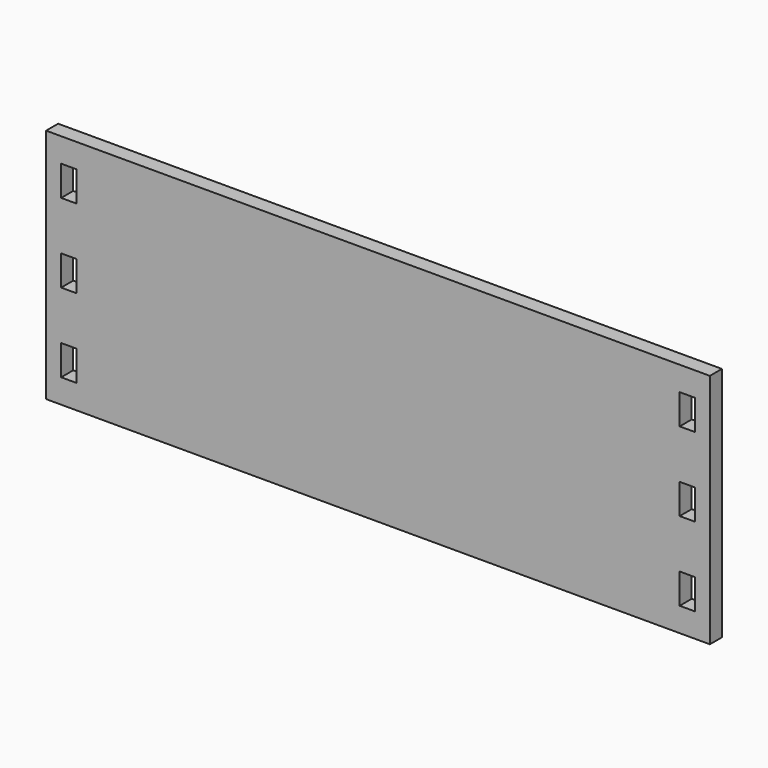
from build123d import *

# Parameters (mm, degrees)
F0_W     = 838.2
F0_H     = 298.45
F0_W_2   = 19.05
F0_H_2   = 38.1
F1_DEPTH = 9.525
F2_W     = 9.525
F2_H     = 6.35
F3_DEPTH = 390.525


with BuildPart() as f1:
    # F0 (on Front) → F1 (new body, symmetric)
    with BuildSketch(Plane.XZ):
        Rectangle(F0_W, F0_H)
        with Locations((-390.525, -99.695)):
            Rectangle(F0_W_2, F0_H_2, mode=Mode.SUBTRACT)
        with Locations((390.525, -99.695)):
            Rectangle(F0_W_2, F0_H_2, mode=Mode.SUBTRACT)
        with Locations((-390.525, 0)):
            Rectangle(F0_W_2, F0_H_2, mode=Mode.SUBTRACT)
        with Locations((-390.525, 99.695)):
            Rectangle(F0_W_2, F0_H_2, mode=Mode.SUBTRACT)
        with Locations((390.525, 0)):
            Rectangle(F0_W_2, F0_H_2, mode=Mode.SUBTRACT)
        with Locations((390.525, 99.695)):
            Rectangle(F0_W_2, F0_H_2, mode=Mode.SUBTRACT)
    extrude(amount=F1_DEPTH, both=True)

    # F2 (on Right) → F3 (cut, symmetric)
    with BuildSketch(Plane.YZ):
        with Locations((4.7625, -146.05)):
            Rectangle(F2_W, F2_H)
    extrude(amount=F3_DEPTH, both=True, mode=Mode.SUBTRACT)


solid = f1.part
